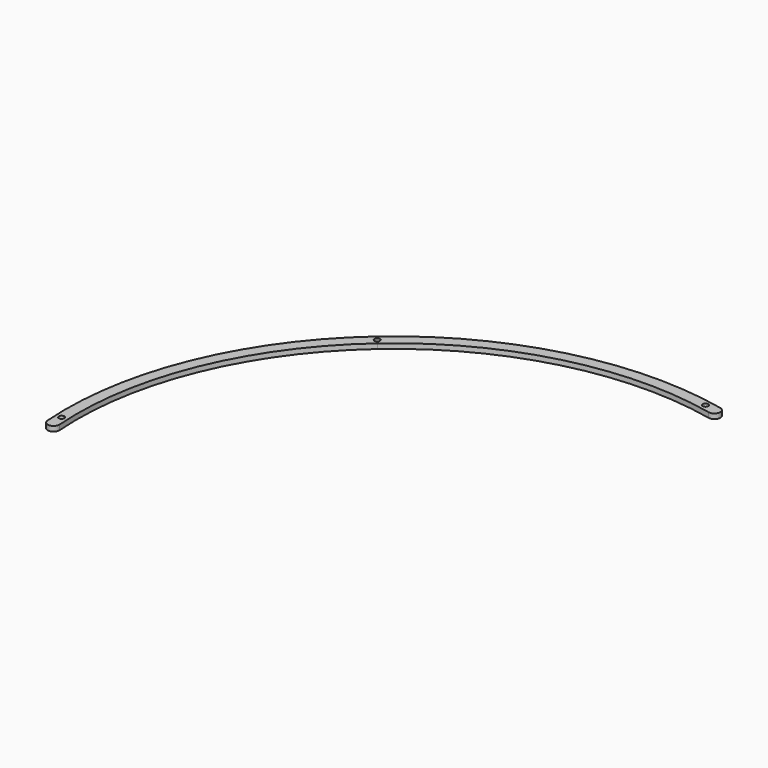
from build123d import *

# Parameters (mm, degrees)
PAD015_DEPTH                        = 3
SKETCH054_R                         = 1.65
POCKET018_DEPTH                     = 358.938883
POCKET018_DEPTH_BACK                = 361.938883
BODY001003005003004_PLACEMENT_ANGLE = 60
CLONE006_PLACEMENT_ANGLE            = 19


with BuildPart() as part:
    # Sketch053 → Pad015 (new body)
    with BuildSketch(Plane.XY):
        with BuildLine():
            ThreePointArc((152.005097, 113.785532), (84.992984, 169.790723), (0, 189.875477))
            Line((0, 189.875477), (0, 196.875477))
            ThreePointArc((157.608957, 117.98038), (88.126358, 176.050273), (0, 196.875477))
            ThreePointArc((152.005097, 113.785532), (156.904451, 113.081026), (157.608957, 117.98038))
        make_face()
    pad015 = extrude(amount=PAD015_DEPTH)

    # Sketch054 → Pocket018 (cut, two sides)
    with BuildSketch(Plane.XY) as pocket018_sk:
        with Locations((150.82443, 121.020933)):
            Circle(SKETCH054_R)
        with BuildLine():
            ThreePointArc((0, 191.725477), (1.65, 193.375477), (0, 195.025477))
            Line((0, 191.725477), (0, 195.025477))
        make_face()
    pocket018 = extrude(amount=-POCKET018_DEPTH, mode=Mode.SUBTRACT) + extrude(pocket018_sk.sketch, amount=POCKET018_DEPTH_BACK, mode=Mode.SUBTRACT)

    # Mirrored020: Pad015, Pocket018 across Sketch053 V_Axis
    add(pad015.mirror(Plane(origin=(0, 0, 0), x_dir=(0, 0, 1), z_dir=(1, 0, 0))))
    add(pocket018.mirror(Plane(origin=(0, 0, 0), x_dir=(0, 0, 1), z_dir=(1, 0, 0))), mode=Mode.SUBTRACT)


with BuildPart() as part_1:
    # Body001003005003004 placement: moved
    add(part.part.rotate(Axis((0, 0, 0), (0, 0, 1)), BODY001003005003004_PLACEMENT_ANGLE))


with BuildPart() as part_2:
    # Clone006 placement: moved
    add(part_1.part.moved(Location((1056, 450, 0))).rotate(Axis((1056, 450, 0), (0, 0, -1)), CLONE006_PLACEMENT_ANGLE))


solid = part_2.part
